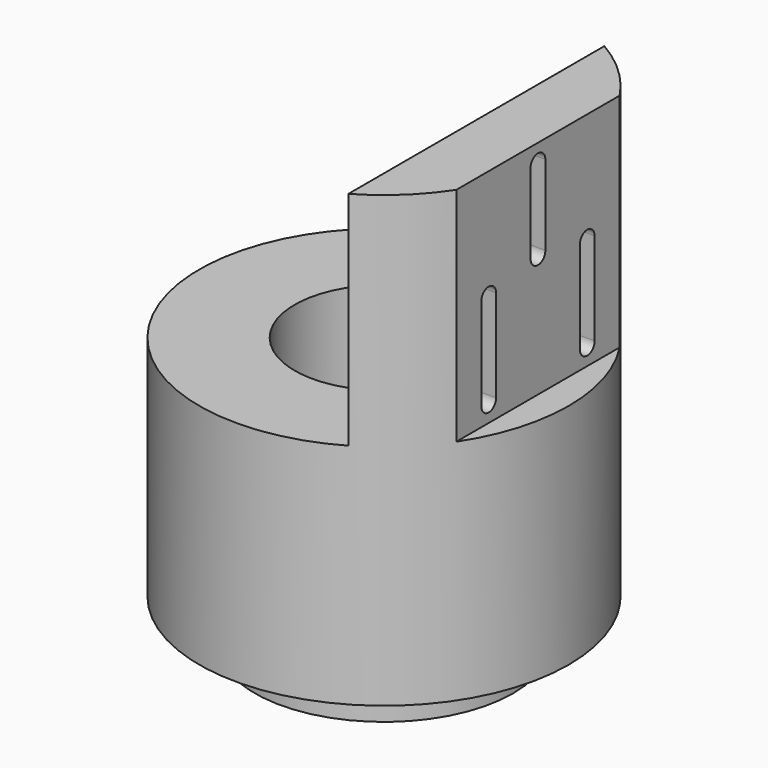
from build123d import *

# Parameters (mm, degrees)
F0_R     = 30
F0_R_2   = 14.5
F1_DEPTH = 73
F2_R     = 23.5
F2_R_2   = 14.5
F3_DEPTH = 2
F4_R     = 21
F4_R_2   = 14.5
F5_DEPTH = 5
F6_R     = 14.5
F7_DEPTH = 36
F9_DEPTH = 15.001


with BuildPart() as f1:
    # F0 (on Top) → F1 (new body)
    with BuildSketch(Plane.XY):
        Circle(F0_R)
        Circle(F0_R_2, mode=Mode.SUBTRACT)
    extrude(amount=F1_DEPTH)

    # F2 (on face) → F3 (join)
    with BuildSketch(Plane(origin=(0, 0, 0), x_dir=(1, 0, 0), z_dir=(0, 0, -1))):
        Circle(F2_R)
        Circle(F2_R_2, mode=Mode.SUBTRACT)
    extrude(amount=F3_DEPTH)

    # F4 (on face) → F5 (join)
    with BuildSketch(Plane(origin=(0, 0, -2), x_dir=(1, 0, 0), z_dir=(0, 0, -1))):
        Circle(F4_R)
        Circle(F4_R_2, mode=Mode.SUBTRACT)
    extrude(amount=F5_DEPTH)

    # F6 (on face) → F7 (cut)
    with BuildSketch(Plane.XY.offset(73)):
        with BuildLine():
            Line((15, -25.9807621135), (15, 25.9807621135))
            ThreePointArc((15, 25.9807621135), (-30, 0), (15, -25.9807621135))
        make_face()
        Circle(F6_R, mode=Mode.SUBTRACT)
        with BuildLine():
            ThreePointArc((30, 0), (28.7228132327, 8.6602540378), (25, 16.5831239518))
            Line((25, 16.5831239518), (25, -16.5831239518))
            ThreePointArc((25, -16.5831239518), (28.7228132327, -8.6602540378), (30, 0))
        make_face()
    extrude(amount=-F7_DEPTH, mode=Mode.SUBTRACT)

    # F8 (on face) → F9 (cut, through all)
    with BuildSketch(Plane(origin=(15, 0, 0), x_dir=(0, -1, 0), z_dir=(-1, 0, 0))):
        with BuildLine():
            Line((-11.5, 55), (-11.5, 40))
            ThreePointArc((-11.5, 40), (-10, 38.5), (-8.5, 40))
            Line((-8.5, 40), (-8.5, 55))
            ThreePointArc((-8.5, 55), (-10, 56.5), (-11.5, 55))
        make_face()
        with BuildLine():
            Line((8.5, 55), (8.5, 40))
            ThreePointArc((8.5, 40), (10, 38.5), (11.5, 40))
            Line((11.5, 40), (11.5, 55))
            ThreePointArc((11.5, 55), (10, 56.5), (8.5, 55))
        make_face()
        with BuildLine():
            Line((-1.5, 70), (-1.5, 57))
            ThreePointArc((-1.5, 57), (0, 55.5), (1.5, 57))
            Line((1.5, 57), (1.5, 70))
            ThreePointArc((1.5, 70), (0, 71.5), (-1.5, 70))
        make_face()
    extrude(amount=-F9_DEPTH, mode=Mode.SUBTRACT)


solid = f1.part
